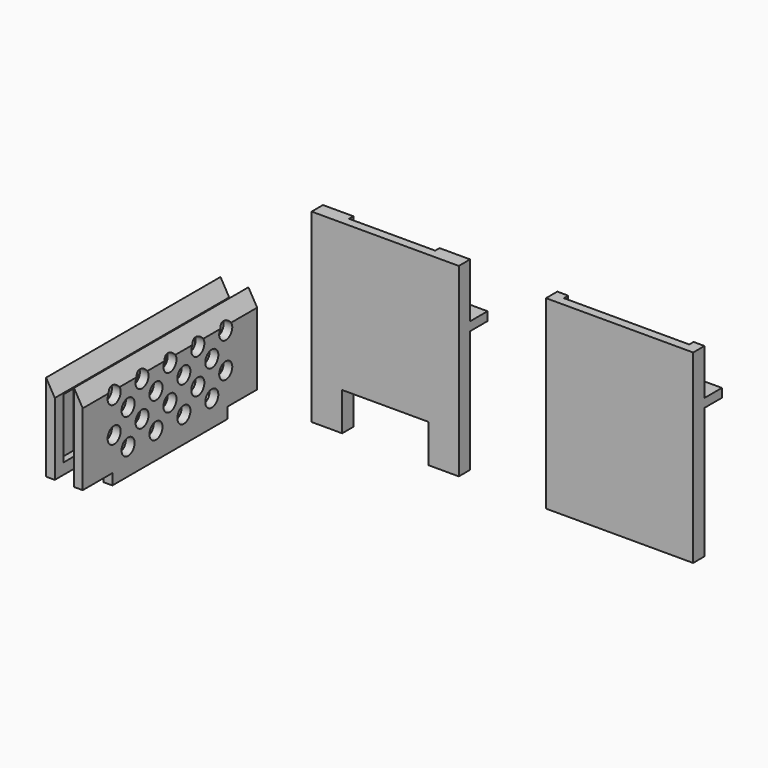
from build123d import *

# Parameters (mm, degrees)
F1_DEPTH  = 170
F3_W      = 135
F3_H      = 33
F4_DEPTH  = 8
F6_DEPTH  = 170
F7_W      = 79
F7_H      = 35
F8_DEPTH  = 8
F9_W      = 135
F9_H      = 33
F10_DEPTH = 8
F12_DEPTH = 200
F13_W     = 34
F13_H     = 10
F13_R     = 7.5
F14_DEPTH = 8
F16_DEPTH = 200
F17_W     = 34
F17_H     = 10
F18_DEPTH = 8
F20_W     = 19
F20_H     = 55
F20_W_2   = 12
F20_H_2   = 65
F21_DEPTH = 6


with BuildPart() as f1:
    # F0 (on Top) → F1 (new body)
    with BuildSketch(Plane.XY):
        Polygon((50, 13), (40, 13), (40, 0), (175, 0), (175, 13), (165, 13), (165, 8), (50, 8), align=None)
    extrude(amount=F1_DEPTH)

    # F3 (on offset) → F4 (join)
    with BuildSketch(Plane(origin=(0, 0, 120), x_dir=(1, 0, 0), z_dir=(0, 0, -1))):
        with Locations((107.5, -16.5)):
            Rectangle(F3_W, F3_H)
    extrude(amount=-F4_DEPTH)


with BuildPart() as f6:
    # F5 (on Top) → F6 (new body)
    with BuildSketch(Plane.XY):
        Polygon((-175, 0), (-40, 0), (-40, 13), (-68, 13), (-68, 8), (-147, 8), (-147, 13), (-175, 13), align=None)
    extrude(amount=F6_DEPTH)

    # F7 (on face) → F8 (cut, through all)
    with BuildSketch(Plane(origin=(0, 8, 0), x_dir=(-1, 0, 0), z_dir=(0, 1, 0))):
        with Locations((107.5, 17.5)):
            Rectangle(F7_W, F7_H)
    extrude(amount=-F8_DEPTH, mode=Mode.SUBTRACT)

    # F9 (on offset) → F10 (join)
    with BuildSketch(Plane(origin=(0, 0, 120), x_dir=(1, 0, 0), z_dir=(0, 0, -1))):
        with Locations((-107.5, -16.5)):
            Rectangle(F9_W, F9_H)
    extrude(amount=F10_DEPTH)


with BuildPart() as f12:
    # F11 (on Front) → F12 (new body)
    with BuildSketch(Plane.XZ):
        Polygon((-233, 0), (-225, 0), (-225, 76.1435935394), (-233, 90), align=None)
    extrude(amount=F12_DEPTH)

    # F13 (on face) → F14 (cut, through all)
    with BuildSketch(Plane(origin=(-233, 0, 0), x_dir=(0, -1, 0), z_dir=(-1, 0, 0))):
        with Locations((17, 5)):
            Rectangle(F13_W, F13_H)
        with Locations((183, 5)):
            Rectangle(F13_W, F13_H)
        with Locations((36, 72)):
            Circle(F13_R)
        with Locations((52, 56)):
            Circle(F13_R)
        with Locations((36, 40)):
            Circle(F13_R)
        with Locations((52, 24)):
            Circle(F13_R)
        with Locations((68, 72)):
            Circle(F13_R)
        with Locations((84, 56)):
            Circle(F13_R)
        with Locations((68, 40)):
            Circle(F13_R)
        with Locations((84, 24)):
            Circle(F13_R)
        with Locations((100, 72)):
            Circle(F13_R)
        with Locations((116, 56)):
            Circle(F13_R)
        with Locations((100, 40)):
            Circle(F13_R)
        with Locations((116, 24)):
            Circle(F13_R)
        with Locations((132, 72)):
            Circle(F13_R)
        with Locations((148, 56)):
            Circle(F13_R)
        with Locations((132, 40)):
            Circle(F13_R)
        with Locations((148, 24)):
            Circle(F13_R)
        with Locations((164, 72)):
            Circle(F13_R)
        with Locations((164, 40)):
            Circle(F13_R)
    extrude(amount=-F14_DEPTH, mode=Mode.SUBTRACT)


with BuildPart() as f16:
    # F15 (on Front) → F16 (new body)
    with BuildSketch(Plane.XZ):
        Polygon((-258.6232423782, 0), (-250.6232423782, 0), (-250.6232423782, 76.1435935394), (-258.6232423782, 90), align=None)
    extrude(amount=F16_DEPTH)

    # F17 (on face) → F18 (cut, through all)
    with BuildSketch(Plane(origin=(-258.6232423782, 0, 0), x_dir=(0, -1, 0), z_dir=(-1, 0, 0))):
        with Locations((17, 5)):
            Rectangle(F17_W, F17_H)
        with Locations((183, 5)):
            Rectangle(F17_W, F17_H)
    extrude(amount=-F18_DEPTH, mode=Mode.SUBTRACT)

    # F20 (on offset) → F21 (cut, through all)
    with BuildSketch(Plane(origin=(-256.6232423782, 0, 0), x_dir=(0, -1, 0), z_dir=(-1, 0, 0))):
        with Locations((19.5, 47.5)):
            Rectangle(F20_W, F20_H)
        with Locations((45, 42.5)):
            Rectangle(F20_W_2, F20_H_2)
        with Locations((67, 42.5)):
            Rectangle(F20_W_2, F20_H_2)
        with Locations((89, 42.5)):
            Rectangle(F20_W_2, F20_H_2)
        with Locations((111, 42.5)):
            Rectangle(F20_W_2, F20_H_2)
        with Locations((133, 42.5)):
            Rectangle(F20_W_2, F20_H_2)
        with Locations((155, 42.5)):
            Rectangle(F20_W_2, F20_H_2)
        with Locations((180.5, 47.5)):
            Rectangle(F20_W, F20_H)
    extrude(amount=-F21_DEPTH, mode=Mode.SUBTRACT)


solid = Compound([f1.part, f6.part, f12.part, f16.part])
